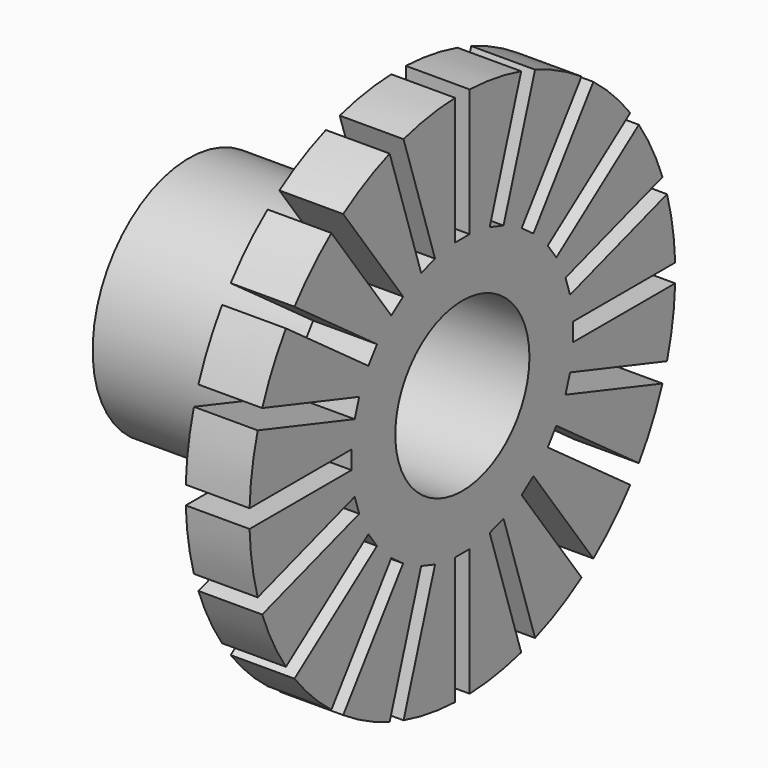
from build123d import *

# Parameters (mm, degrees)
POCKET_DEPTH       = 3.5
POLARPATTERN_COUNT = 20


with BuildPart() as part:
    # Sketch → Revolution (revolve)
    with BuildSketch(Plane.XY):
        Polygon((1.75, 4.6), (1.75, 14.6), (0, 14.6), (-1.75, 14.6), (-1.75, 6.6), (-13.25, 6.6), (-13.25, 4.6), align=None)
    revolve(axis=Axis((0, 0, 0), (1, 0, 0)))

    # Sketch001 (on Face4 of Revolution) → Pocket (cut)
    with BuildSketch(Plane(origin=(-1.75, 0, 0), x_dir=(0, -1, 0), z_dir=(-1, 0, 0))):
        Polygon((-0.5, 15.6), (0.5, 15.6), (0.5, 7.6), (0, 7.6), (-0.5, 7.6), align=None)
    pocket = extrude(amount=-POCKET_DEPTH, mode=Mode.SUBTRACT)

    # PolarPattern: Pocket ×20 about axis
    polarpattern_axis = Axis((-1.75, 0, 0), (-1, 0, 0))
    for i in range(1, POLARPATTERN_COUNT):
        add(pocket.rotate(polarpattern_axis, i * 360 / POLARPATTERN_COUNT), mode=Mode.SUBTRACT)


solid = part.part
